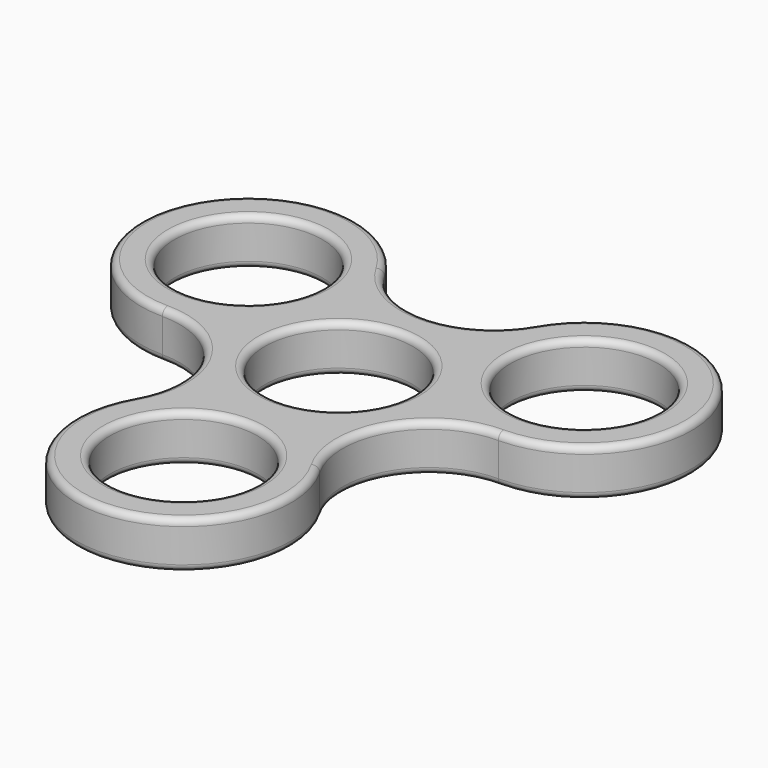
from build123d import *

# Parameters (mm, degrees)
F0_R     = 11
F1_DEPTH = 7
F2_R     = 1


with BuildPart() as f1:
    # F0 (on Top) → F1 (new body)
    with BuildSketch(Plane.XY):
        with BuildLine():
            ThreePointArc((11.143594, 22.433757), (0, 16), (-11.143594, 22.433757))
            ThreePointArc((-11.143594, 22.433757), (-38.856406, 22.433757), (-25, -1.566243))
            ThreePointArc((-25, -1.566243), (-13.856406, -8), (-13.856406, -20.867513))
            ThreePointArc((-13.856406, -20.867513), (0, -44.867513), (13.856406, -20.867513))
            ThreePointArc((13.856406, -20.867513), (13.856406, -8), (25, -1.566243))
            ThreePointArc((25, -1.566243), (38.856406, 22.433757), (11.143594, 22.433757))
        make_face()
        with Locations((0, -28.867513)):
            Circle(F0_R, mode=Mode.SUBTRACT)
        with Locations((-25, 14.433757)):
            Circle(F0_R, mode=Mode.SUBTRACT)
        Circle(F0_R, mode=Mode.SUBTRACT)
        with Locations((25, 14.433757)):
            Circle(F0_R, mode=Mode.SUBTRACT)
    extrude(amount=F1_DEPTH)

    # F2
    f2_edges = [f1.edges().sort_by_distance(p)[0] for p in [
        (0, 16, 7),
        (-38.856406, 22.433757, 7),
        (-13.856406, -8, 7),
        (0, -44.867513, 7),
        (13.856406, -8, 7),
        (38.856406, 22.433757, 7),
        (-11, -28.867513, 7),
        (-36, 14.433757, 7),
        (-11, 0, 7),
        (14, 14.433757, 7),
        (0, 16, 0),
        (-38.856406, 22.433757, 0),
        (-13.856406, -8, 0),
        (0, -44.867513, 0),
        (13.856406, -8, 0),
        (38.856406, 22.433757, 0),
        (-11, -28.867513, 0),
        (-36, 14.433757, 0),
        (-11, 0, 0),
        (14, 14.433757, 0),
    ]]
    fillet(f2_edges, radius=F2_R)


solid = f1.part
